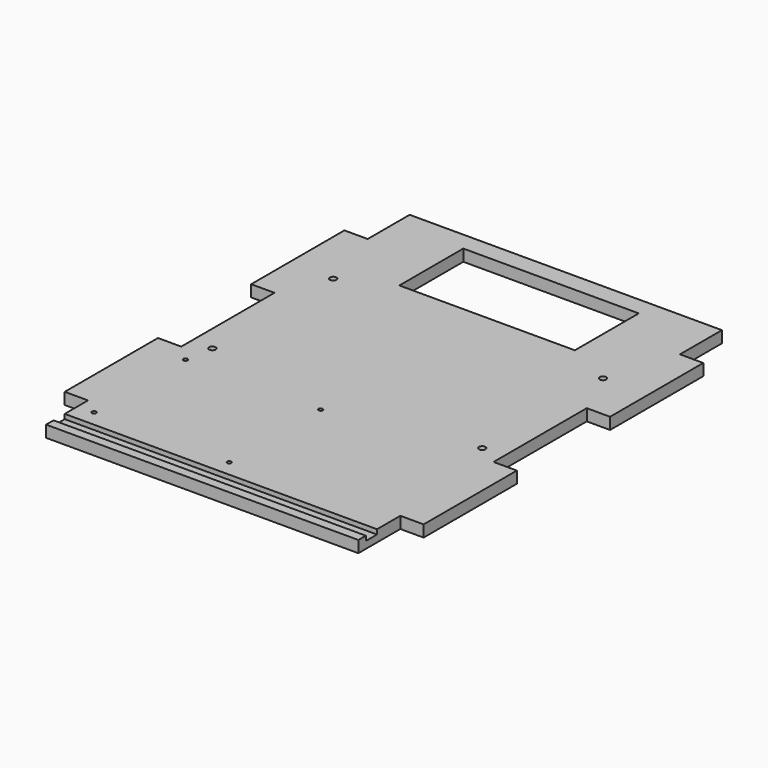
from build123d import *

# Parameters (mm, degrees)
PAD002_DEPTH    = 5
SKETCH002_R     = 0.9
SKETCH002_R_2   = 1.4
POCKET002_DEPTH = 5
SKETCH009_W     = 134
SKETCH009_H     = 6
POCKET009_DEPTH = 2


with BuildPart() as part:
    # Sketch004 → Pad002 (new body)
    with BuildSketch(Plane(origin=(0, 0, 5), x_dir=(1, 0, 0), z_dir=(0, 0, -1))):
        Polygon((-67, 97.5), (67, 97.5), (67, 75), (77, 75), (77, 25), (67, 25), (67, 0), (67, -25), (77, -25), (77, -75), (67, -75), (67, -97.5), (-67, -97.5), (-67, -75), (-77, -75), (-77, -25), (-67, -25), (-67, 0), (-67, 25), (-77, 25), (-77, 75), (-67, 75), align=None)
    extrude(amount=PAD002_DEPTH)

    # Sketch002 (on Face4 of Pad001) → Pocket002 (cut)
    with BuildSketch(Plane(origin=(0, 0, 0), x_dir=(1, 0, 0), z_dir=(0, 0, -1))):
        with Locations((-2, 80.5)):
            Circle(SKETCH002_R)
        with Locations((-60, 80.5)):
            Circle(SKETCH002_R)
        with Locations((-60, 31.5)):
            Circle(SKETCH002_R)
        with Locations((-2, 31.5)):
            Circle(SKETCH002_R)
        with Locations((-58.05, 19.5)):
            Circle(SKETCH002_R_2)
        with Locations((57.75, 19.5)):
            Circle(SKETCH002_R_2)
        with Locations((-58.05, -45.3)):
            Circle(SKETCH002_R_2)
        with Locations((57.75, -45.3)):
            Circle(SKETCH002_R_2)
        Polygon((37.65, -55.3), (37.65, -89.6), (-37.65, -89.6), (-37.65, -55.3), (0, -55.3), align=None)
    extrude(amount=-POCKET002_DEPTH, mode=Mode.SUBTRACT)

    # Sketch009 (on Face4 of Pocket002) → Pocket009 (cut)
    with BuildSketch(Plane.XY.offset(5)):
        with Locations((0, -90.5)):
            Rectangle(SKETCH009_W, SKETCH009_H)
    extrude(amount=-POCKET009_DEPTH, mode=Mode.SUBTRACT)


solid = part.part
